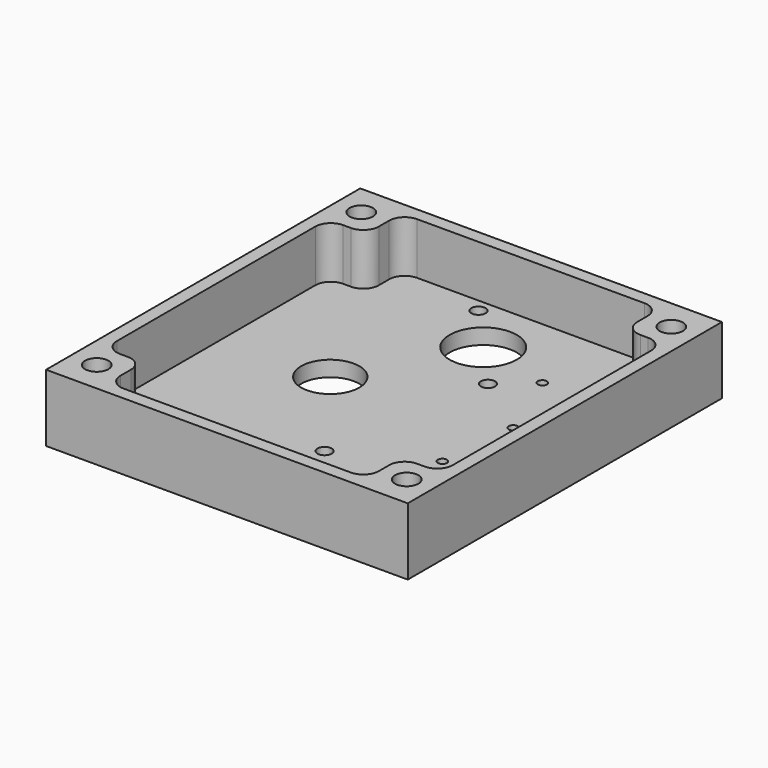
from build123d import *

# Parameters (mm, degrees)
F0_W     = 70
F0_H     = 76
F0_R     = 2.25
F0_R_2   = 1.375
F0_R_3   = 0.875
F0_R_4   = 5.625
F0_R_5   = 6.5
F1_DEPTH = 13
F2_R     = 1.375
F2_R_2   = 0.875
F2_R_3   = 5.625
F2_W     = 50
F2_H     = 8.5
F3_DEPTH = 10
F4_R     = 3


with BuildPart() as f1:
    # F0 (on Top) → F1 (new body)
    with BuildSketch(Plane.XY):
        Rectangle(F0_W, F0_H)
        with Locations((-30, -32)):
            Circle(F0_R, mode=Mode.SUBTRACT)
        with Locations((30, -32)):
            Circle(F0_R, mode=Mode.SUBTRACT)
        with Locations((2.5, -17.5)):
            Circle(F0_R_2, mode=Mode.SUBTRACT)
        with Locations((18.5, -9)):
            Circle(F0_R_3, mode=Mode.SUBTRACT)
        with Locations((-12, 2)):
            Circle(F0_R_4, mode=Mode.SUBTRACT)
        with Locations((-30, 32)):
            Circle(F0_R, mode=Mode.SUBTRACT)
        with Locations((-8.0413195181, 32.907142101)):
            Circle(F0_R_2, mode=Mode.SUBTRACT)
        with Locations((8.0413195181, 15.092857899)):
            Circle(F0_R_2, mode=Mode.SUBTRACT)
        with Locations((20, 6.25)):
            Circle(F0_R_3, mode=Mode.SUBTRACT)
        with Locations((0, 24)):
            Circle(F0_R_5, mode=Mode.SUBTRACT)
        with Locations((14.25, 20.5)):
            Circle(F0_R_3, mode=Mode.SUBTRACT)
        with Locations((30, 32)):
            Circle(F0_R, mode=Mode.SUBTRACT)
    extrude(amount=F1_DEPTH)

    # F2 (on face) → F3 (cut)
    with BuildSketch(Plane.XY.offset(13)):
        with BuildLine():
            Line((-25, 27), (-32.5, 27))
            Line((-32.5, 27), (-32.5, -27))
            Line((-32.5, -27), (-25, -27))
            Line((-25, -27), (25, -27))
            Line((25, -27), (32.5, -27))
            Line((32.5, -27), (32.5, 27))
            Line((32.5, 27), (25, 27))
            Line((25, 27), (5.7662812973, 27))
            ThreePointArc((5.7662812973, 27), (6.3139064149, 25.5442104078), (6.5, 24))
            ThreePointArc((6.5, 24), (-1.5442104078, 17.6860935851), (-5.7662812973, 27))
            Line((-5.7662812973, 27), (-25, 27))
        make_face()
        with Locations((2.5, -17.5)):
            Circle(F2_R, mode=Mode.SUBTRACT)
        with Locations((18.5, -9)):
            Circle(F2_R_2, mode=Mode.SUBTRACT)
        with Locations((-12, 2)):
            Circle(F2_R_3, mode=Mode.SUBTRACT)
        with Locations((8.0413195181, 15.092857899)):
            Circle(F2_R, mode=Mode.SUBTRACT)
        with Locations((20, 6.25)):
            Circle(F2_R_2, mode=Mode.SUBTRACT)
        with Locations((14.25, 20.5)):
            Circle(F2_R_2, mode=Mode.SUBTRACT)
        with BuildLine():
            Line((-25, 35.5), (-25, 27))
            Line((-25, 27), (-5.7662812973, 27))
            ThreePointArc((-5.7662812973, 27), (0, 30.5), (5.7662812973, 27))
            Line((5.7662812973, 27), (25, 27))
            Line((25, 27), (25, 35.5))
            Line((25, 35.5), (-25, 35.5))
        make_face()
        with Locations((-8.0413195181, 32.907142101)):
            Circle(F2_R, mode=Mode.SUBTRACT)
        with Locations((0, -31.25)):
            Rectangle(F2_W, F2_H)
    extrude(amount=-F3_DEPTH, mode=Mode.SUBTRACT)

    # F4
    f4_edges = [f1.edges().sort_by_distance(p)[0] for p in [
        (-25, 27, 8),
        (25, 27, 8),
        (-25, -27, 8),
        (25, -27, 8),
        (32.5, -27, 8),
        (32.5, 27, 8),
        (25, 35.5, 8),
        (-25, 35.5, 8),
        (-32.5, 27, 8),
        (-32.5, -27, 8),
        (-25, -35.5, 8),
        (25, -35.5, 8),
    ]]
    fillet(f4_edges, radius=F4_R)


solid = f1.part
